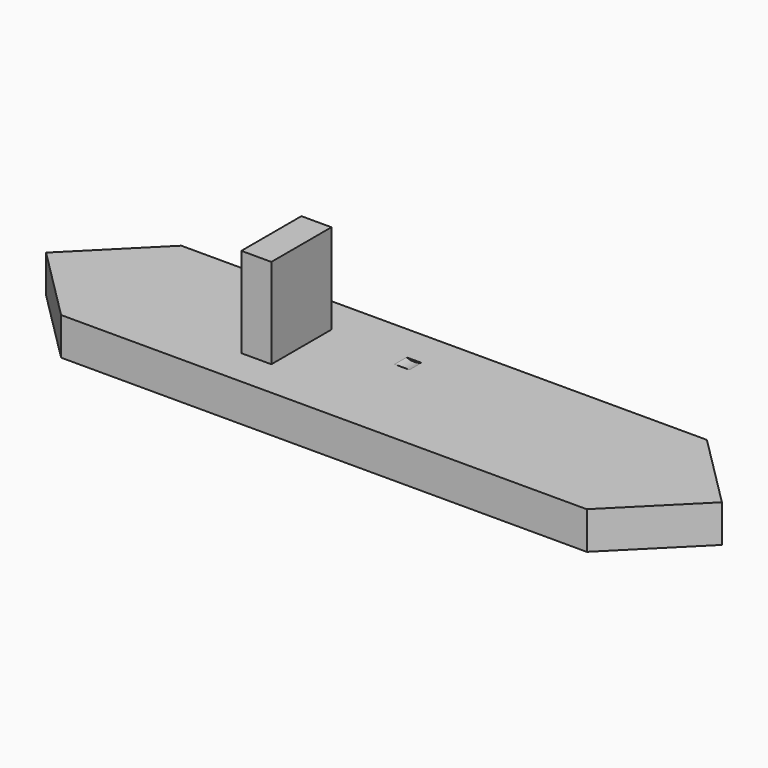
from build123d import *

# Parameters (mm, degrees)
PAD_DEPTH    = 5
SKETCH001_W  = 4
SKETCH001_H  = 10
PAD001_DEPTH = 12
POCKET_DEPTH = 2


with BuildPart() as part:
    # Sketch → Pad (new body)
    with BuildSketch(Plane.XY):
        Polygon((-35, 10), (35, 10), (45, 0), (35, -10), (-35, -10), (-45, 0), align=None)
    extrude(amount=PAD_DEPTH)

    # Sketch001 (on Face8 of Pad) → Pad001 (join)
    with BuildSketch(Plane.XY.offset(5)):
        with Locations((-13, 0)):
            Rectangle(SKETCH001_W, SKETCH001_H)
    extrude(amount=PAD001_DEPTH)

    # Sketch002 (on Face12 of Pad001) → Pocket (cut)
    with BuildSketch(Plane(origin=(0, 5, 0), x_dir=(-1, 0, 0), z_dir=(0, 1, 0))):
        with BuildLine():
            Line((-3.4, 17), (3.4, 17))
            Line((3.4, 17), (2.6, 7.2))
            ThreePointArc((-2.6, 7.2), (0, 4.803596), (2.6, 7.2))
            Line((-3.4, 17), (-2.6, 7.2))
        make_face()
    extrude(amount=-POCKET_DEPTH, mode=Mode.SUBTRACT)


solid = part.part
